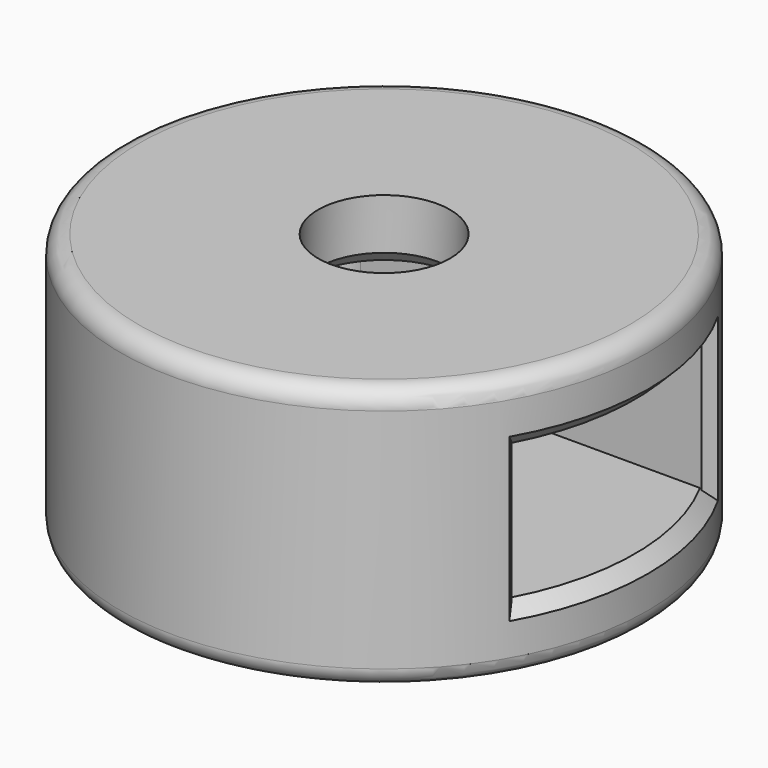
from build123d import *

# Parameters (mm, degrees)
SKETCH_R        = 10
SKETCH_R_2      = 2.5
PAD_DEPTH       = 5
PAD_DEPTH_BACK  = 5
SKETCH001_W     = 9
SKETCH001_H     = 5.15
POCKET_DEPTH    = 16
CHAMFER_SIZE    = 0.5
FILLET_R        = 1.5
CHAMFER001_SIZE = 0.5
FILLET001_R     = 0.7


with BuildPart() as part:
    # Sketch → Pad (new body, two sides)
    with BuildSketch(Plane.XY) as pad_sk:
        Circle(SKETCH_R)
        Circle(SKETCH_R_2, mode=Mode.SUBTRACT)
    extrude(amount=PAD_DEPTH)
    extrude(pad_sk.sketch, amount=-PAD_DEPTH_BACK)

    # Sketch001 (on DatumPlane) → Pocket (cut)
    with BuildSketch(Plane.YZ.offset(10)):
        Rectangle(SKETCH001_W, SKETCH001_H)
    extrude(amount=-POCKET_DEPTH, mode=Mode.SUBTRACT)

    # Chamfer
    chamfer_edges = [part.edges().sort_by_distance(p)[0] for p in [
        (-2.5, 0, -5),
        (-2.5, 0, 2.575),
    ]]
    chamfer(chamfer_edges, length=CHAMFER_SIZE)

    # Fillet
    fillet_edges = [part.edges().sort_by_distance(p)[0] for p in [
        (-6, 0, 2.575),
        (-6, 4.5, 0),
        (-6, 0, -2.575),
        (-6, -4.5, 0),
    ]]
    fillet(fillet_edges, radius=FILLET_R)

    # Chamfer001
    chamfer001_edges = [part.edges().sort_by_distance(p)[0] for p in [
        (9.728897, -2.312698, -2.575),
        (8.930286, -4.5, 0),
        (9.728897, -2.312698, 2.575),
        (9.728897, 2.312698, 2.575),
        (8.930286, 4.5, 0),
        (9.728897, 2.312698, -2.575),
    ]]
    chamfer(chamfer001_edges, length=CHAMFER001_SIZE)

    # Fillet001
    fillet001_edges = [part.edges().sort_by_distance(p)[0] for p in [
        (-10, 0, 5),
        (-10, 0, -5),
    ]]
    fillet(fillet001_edges, radius=FILLET001_R)


solid = part.part
